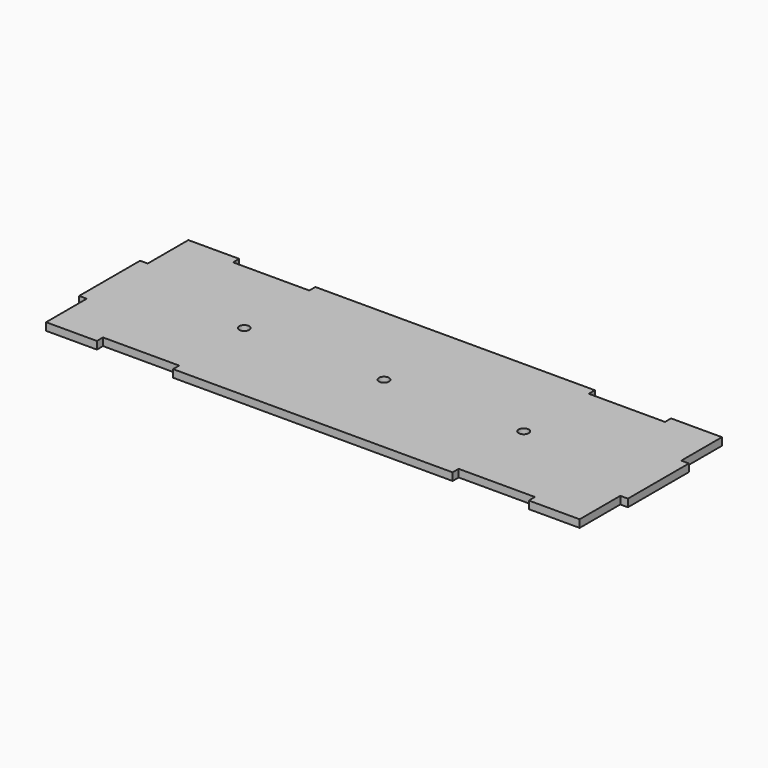
from build123d import *

# Parameters (mm, degrees)
F0_W     = 3
F0_H     = 30
F0_R     = 2
F1_DEPTH = 3


with BuildPart() as f1:
    # F0 (on Top) → F1 (new body)
    with BuildSketch(Plane.XY):
        with Locations((-1.5, 35)):
            Rectangle(F0_W, F0_H)
        with Locations((211.5, 35)):
            Rectangle(F0_W, F0_H)
        Polygon((0, 20), (0, 0), (20, 0), (20, 3), (50, 3), (50, 0), (160, 0), (160, 3), (190, 3), (190, 0), (210, 0), (210, 20), (210, 50), (210, 70), (190, 70), (190, 67), (160, 67), (160, 70), (50, 70), (50, 67), (20, 67), (20, 70), (0, 70), (0, 50), align=None)
        with Locations((50, 35)):
            Circle(F0_R, mode=Mode.SUBTRACT)
        with Locations((105, 35)):
            Circle(F0_R, mode=Mode.SUBTRACT)
        with Locations((160, 35)):
            Circle(F0_R, mode=Mode.SUBTRACT)
    extrude(amount=F1_DEPTH)


solid = f1.part
